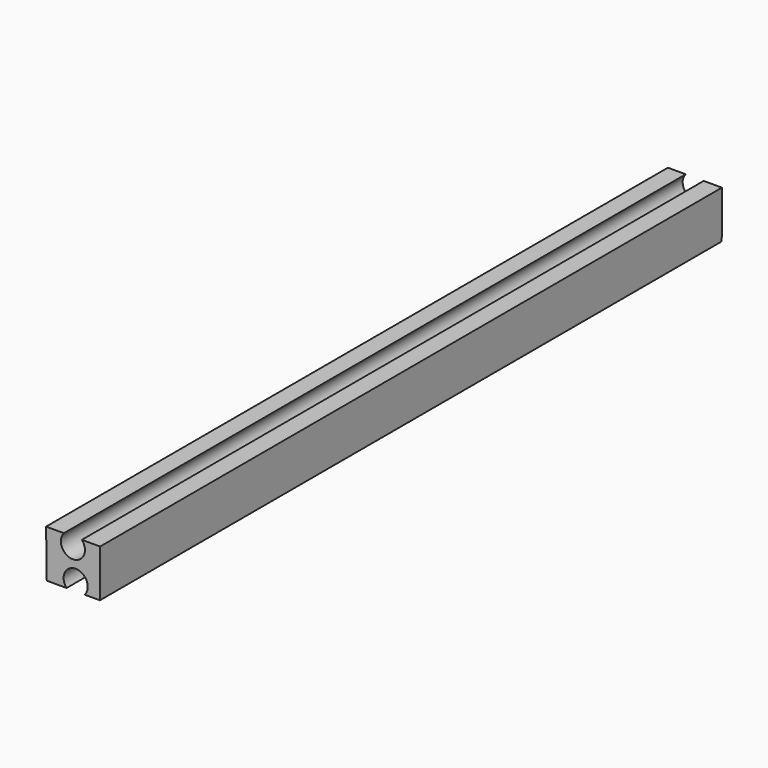
from build123d import *

# Parameters (mm, degrees)
F1_DEPTH = 25.4


with BuildPart() as f1:
    # F0 (on Front) → F1 (new body)
    with BuildSketch(Plane.XZ):
        with BuildLine():
            ThreePointArc((0.203023, 0.7747), (0.277424, 0.652678), (0.303363, 0.512137))
            ThreePointArc((0.303363, 0.512137), (-0.230878, 0.144376), (-0.383697, 0.7747))
            Line((-0.383697, 0.7747), (-0.966637, 0.7747))
            Line((-0.966637, 0.7747), (-0.944367, -0.7747))
            Line((-0.944367, -0.7747), (-0.296013, -0.7747))
            ThreePointArc((-0.296013, -0.7747), (-0.138671, -0.146662), (0.3937, -0.515132))
            ThreePointArc((0.3937, -0.515132), (0.36847, -0.653802), (0.296013, -0.7747))
            Line((0.296013, -0.7747), (0.792689, -0.7747))
            Line((0.792689, -0.7747), (0.798663, 0.7747))
            Line((0.798663, 0.7747), (0.203023, 0.7747))
        make_face()
    extrude(amount=F1_DEPTH)


solid = f1.part
